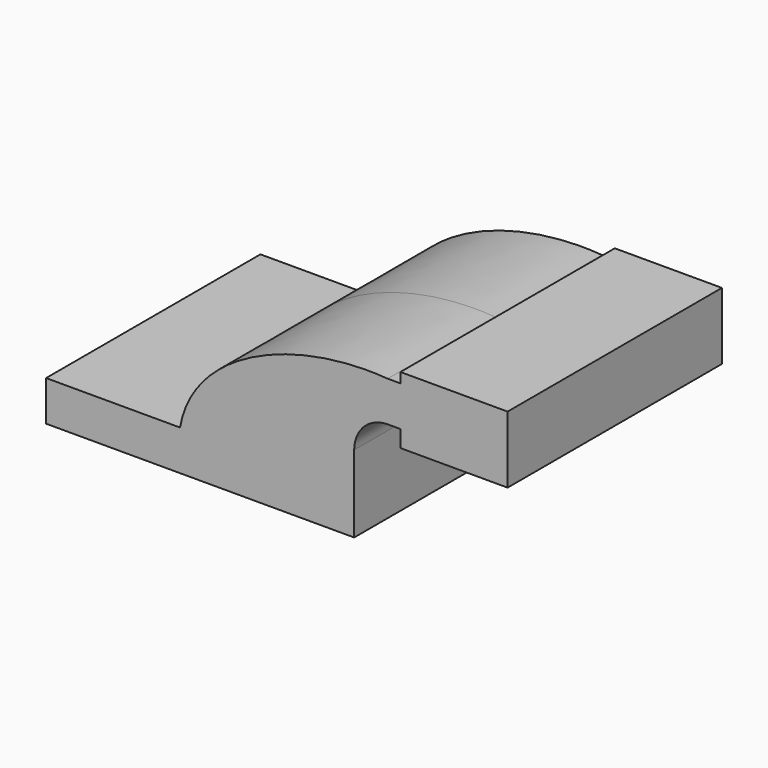
from build123d import *

# Parameters (mm, degrees)
F1_DEPTH = 63.5
F2_DEPTH = 63.5
F3_DEPTH = 63.5


with BuildPart() as f1:
    # F0 (on Front) → F1 (new body, symmetric)
    with BuildSketch(Plane.XZ):
        Polygon((-41.275, 9.525), (-41.275, -9.525), (41.275, -9.525), (41.275, 9.525), (22.225, 9.525), align=None)
    extrude(amount=F1_DEPTH, both=True)

    # F0 (on Front) → F2 (join, symmetric)
    with BuildSketch(Plane.XZ):
        Polygon((-41.275, 9.525), (-41.275, -9.525), (41.275, -9.525), (41.275, 9.525), (22.225, 9.525), align=None)
        with BuildLine():
            add(Edge.make_bspline(
                [(-41.275, 9.525), (-35.113391, 45.455925), (13.393071, 65.25448), (57.15, 61.9252)],
                knots=[0, 0, 0, 0, 111.504536, 111.504536, 111.504536, 111.504536], degree=3))
            Line((-41.275, 9.525), (22.225, 9.525))
            Line((22.225, 9.525), (22.225, 27.0002))
            ThreePointArc((22.225, 27.0002), (32.454296, 51.695904), (57.15, 61.9252))
        make_face()
        with BuildLine():
            Line((22.225, 9.525), (41.275, 9.525))
            Line((41.275, 9.525), (41.275, 27.0002))
            ThreePointArc((41.275, 27.0002), (45.92468, 38.22552), (57.15, 42.8752))
            Line((57.15, 42.8752), (63.200993, 42.8752))
            Line((63.200993, 42.8752), (63.200993, 61.9252))
            Line((63.200993, 61.9252), (57.15, 61.9252))
            ThreePointArc((57.15, 61.9252), (32.454296, 51.695904), (22.225, 27.0002))
            Line((22.225, 27.0002), (22.225, 9.525))
        make_face()
        Polygon((63.200993, 66.675), (63.200993, 61.9252), (63.200993, 42.8752), (87.960352, 42.8752), (88.600993, 66.675), align=None)
        Polygon((87.960352, 42.8752), (63.200993, 42.8752), (63.200993, 34.925), (114.000993, 34.925), (114.000993, 66.675), (88.600993, 66.675), align=None)
    extrude(amount=F2_DEPTH, both=True)

    # F1_face (on face) → F3 (join, symmetric)
    with BuildSketch(Plane(origin=(-41.275, 0, 0), x_dir=(0, -1, 0), z_dir=(-1, 0, 0))):
        Polygon((-63.5, 9.525), (-63.5, -9.525), (63.5, -9.525), (63.5, 9.525), (0, 9.525), align=None)
    extrude(amount=F3_DEPTH, both=True)


solid = f1.part
